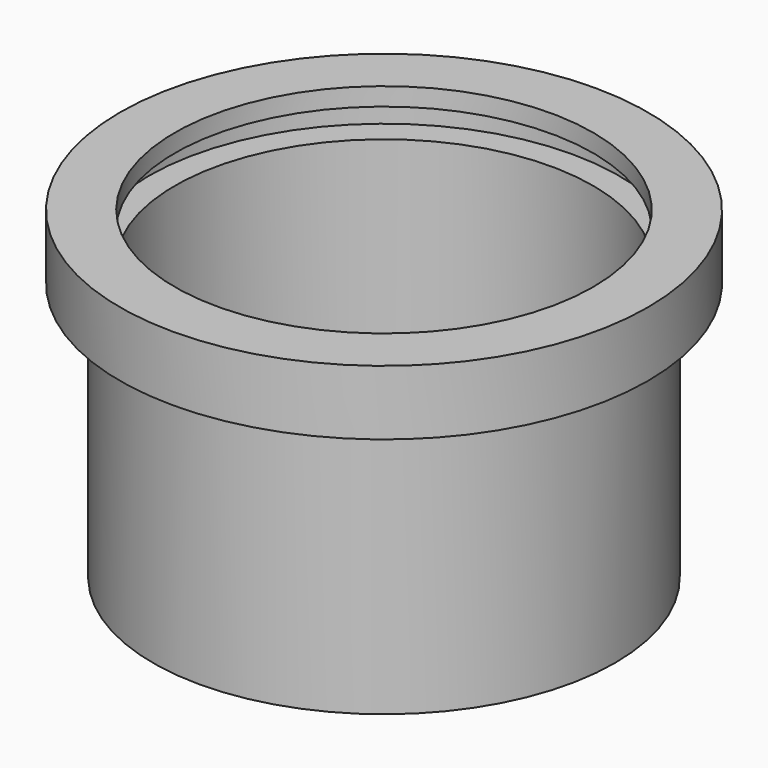
from build123d import *

# Parameters (mm, degrees)
F0_R          = 16.048100164
F0_R_2        = 14.5297232328
F1_DEPTH      = 20
F2_START      = 18
F0_R_3        = 18.3403382945
F2_DEPTH      = 4.5
F3_SCALE      = 0.5
F5_R          = 8.1793967512
F6_DEPTH      = 0.5
F6_DEPTH_BACK = 0.5


with BuildPart() as f1:
    # F0 (on Top) → F1 (new body)
    with BuildSketch(Plane.XY):
        Circle(F0_R)
        Circle(F0_R_2, mode=Mode.SUBTRACT)
    extrude(amount=F1_DEPTH)

    # F0 (on Top) → F2 (join)
    with BuildSketch(Plane.XY.offset(F2_START)):
        Circle(F0_R_3)
        Circle(F0_R, mode=Mode.SUBTRACT)
        Circle(F0_R)
        Circle(F0_R_2, mode=Mode.SUBTRACT)
    extrude(amount=F2_DEPTH)


with BuildPart() as f1_1:
    # F3: moved
    add(f1.part.scale(F3_SCALE))

    # F5 (on offset) → F6 (cut, two sides)
    with BuildSketch(Plane.XY.offset(10.125)) as f6_sk:
        Circle(F5_R)
    extrude(amount=F6_DEPTH, mode=Mode.SUBTRACT)
    extrude(f6_sk.sketch, amount=-F6_DEPTH_BACK, mode=Mode.SUBTRACT)


solid = f1_1.part
